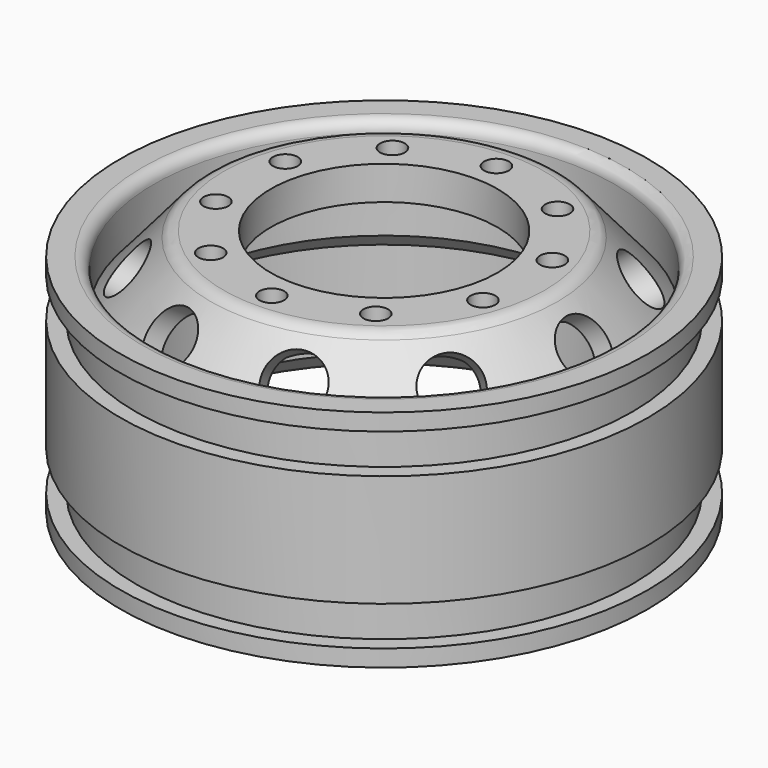
from build123d import *

# Parameters (mm, degrees)
CYLINDER073_R               = 10.1
CYLINDER073_DEPTH           = 26
CYLINDER022_R               = 1.1
CYLINDER022_DEPTH           = 10
CYLINDER021_R               = 1.1
CYLINDER021_DEPTH           = 10
FUSION010_PLACEMENT_ANGLE   = 54
CYLINDER024_R               = 1.1
CYLINDER024_DEPTH           = 10
CYLINDER023_R               = 1.1
CYLINDER023_DEPTH           = 10
FUSION011_PLACEMENT_ANGLE   = 162
CYLINDER026_R               = 1.1
CYLINDER026_DEPTH           = 10
CYLINDER025_R               = 1.1
CYLINDER025_DEPTH           = 10
FUSION012_PLACEMENT_ANGLE   = 126
CYLINDER028_R               = 1.1
CYLINDER028_DEPTH           = 10
CYLINDER027_R               = 1.1
CYLINDER027_DEPTH           = 10
FUSION013_PLACEMENT_ANGLE   = 90
CYLINDER020_R               = 1.1
CYLINDER020_DEPTH           = 10
CYLINDER019_R               = 1.1
CYLINDER019_DEPTH           = 10
FUSION009_PLACEMENT_ANGLE   = 18
CYLINDER012_R               = 2.5
CYLINDER012_DEPTH           = 8
CYLINDER012_PLACEMENT_ANGLE = 58
CYLINDER011_R               = 2.5
CYLINDER011_DEPTH           = 8
CYLINDER011_PLACEMENT_ANGLE = 58
FUSION004_PLACEMENT_ANGLE   = 36
CYLINDER014_R               = 2.5
CYLINDER014_DEPTH           = 8
CYLINDER014_PLACEMENT_ANGLE = 58
CYLINDER013_R               = 2.5
CYLINDER013_DEPTH           = 8
CYLINDER013_PLACEMENT_ANGLE = 58
FUSION005_PLACEMENT_ANGLE   = 72
CYLINDER016_R               = 2.5
CYLINDER016_DEPTH           = 8
CYLINDER016_PLACEMENT_ANGLE = 58
CYLINDER015_R               = 2.5
CYLINDER015_DEPTH           = 8
CYLINDER015_PLACEMENT_ANGLE = 58
FUSION006_PLACEMENT_ANGLE   = 108
CYLINDER018_R               = 2.5
CYLINDER018_DEPTH           = 8
CYLINDER018_PLACEMENT_ANGLE = 58
CYLINDER017_R               = 2.5
CYLINDER017_DEPTH           = 8
CYLINDER017_PLACEMENT_ANGLE = 58
FUSION007_PLACEMENT_ANGLE   = 144
CYLINDER010_R               = 2.5
CYLINDER010_DEPTH           = 8
CYLINDER010_PLACEMENT_ANGLE = 58
CYLINDER009_R               = 2.5
CYLINDER009_DEPTH           = 8
CYLINDER009_PLACEMENT_ANGLE = 58
CYLINDER008_R               = 20
CYLINDER008_DEPTH           = 12
CYLINDER007_R               = 10
CYLINDER007_DEPTH           = 26
CYLINDER006_R               = 20.5
CYLINDER006_DEPTH           = 10
CYLINDER005_R               = 18.5
CYLINDER005_DEPTH           = 20
CYLINDER004_R               = 22.1
CYLINDER004_DEPTH           = 17
CYLINDER003_R               = 23.5
CYLINDER003_DEPTH           = 17
CYLINDER002_R               = 23.5
CYLINDER002_DEPTH           = 20
CYLINDER001_R               = 22
CYLINDER001_DEPTH           = 17
CYLINDER_R                  = 23.5
CYLINDER_DEPTH              = 10
FILLET002_R                 = 1
CHAMFER001_SIZE             = 1.49
CHAMFER_SIZE                = 2
FILLET001_R                 = 1.5
FILLET_R                    = 1.5


with BuildPart() as cylinder073:
    # Cylinder073 → Cylinder073 (new body)
    with BuildSketch(Plane.XY):
        Circle(CYLINDER073_R)
    extrude(amount=CYLINDER073_DEPTH)


with BuildPart() as cylinder022:
    # Cylinder022 → Cylinder022 (new body)
    with BuildSketch(Plane(origin=(-12.5, 0, 13), x_dir=(1, 0, 0), z_dir=(0, 0, 1))):
        Circle(CYLINDER022_R)
    extrude(amount=CYLINDER022_DEPTH)


with BuildPart() as fusion010:
    # Cylinder021 → Cylinder021 (new body)
    with BuildSketch(Plane(origin=(12.5, 0, 13), x_dir=(1, 0, 0), z_dir=(0, 0, 1))):
        Circle(CYLINDER021_R)
    extrude(amount=CYLINDER021_DEPTH)

    # Fusion010: union Cylinder022
    add(cylinder022.part)


with BuildPart() as fusion010_1:
    # Fusion010 placement: moved
    add(fusion010.part.rotate(Axis((0, 0, 0), (0, 0, 1)), FUSION010_PLACEMENT_ANGLE))


with BuildPart() as cylinder024:
    # Cylinder024 → Cylinder024 (new body)
    with BuildSketch(Plane(origin=(-12.5, 0, 13), x_dir=(1, 0, 0), z_dir=(0, 0, 1))):
        Circle(CYLINDER024_R)
    extrude(amount=CYLINDER024_DEPTH)


with BuildPart() as fusion011:
    # Cylinder023 → Cylinder023 (new body)
    with BuildSketch(Plane(origin=(12.5, 0, 13), x_dir=(1, 0, 0), z_dir=(0, 0, 1))):
        Circle(CYLINDER023_R)
    extrude(amount=CYLINDER023_DEPTH)

    # Fusion011: union Cylinder024
    add(cylinder024.part)


with BuildPart() as fusion011_1:
    # Fusion011 placement: moved
    add(fusion011.part.rotate(Axis((0, 0, 0), (0, 0, 1)), FUSION011_PLACEMENT_ANGLE))


with BuildPart() as cylinder026:
    # Cylinder026 → Cylinder026 (new body)
    with BuildSketch(Plane(origin=(-12.5, 0, 13), x_dir=(1, 0, 0), z_dir=(0, 0, 1))):
        Circle(CYLINDER026_R)
    extrude(amount=CYLINDER026_DEPTH)


with BuildPart() as fusion012:
    # Cylinder025 → Cylinder025 (new body)
    with BuildSketch(Plane(origin=(12.5, 0, 13), x_dir=(1, 0, 0), z_dir=(0, 0, 1))):
        Circle(CYLINDER025_R)
    extrude(amount=CYLINDER025_DEPTH)

    # Fusion012: union Cylinder026
    add(cylinder026.part)


with BuildPart() as fusion012_1:
    # Fusion012 placement: moved
    add(fusion012.part.rotate(Axis((0, 0, 0), (0, 0, 1)), FUSION012_PLACEMENT_ANGLE))


with BuildPart() as cylinder028:
    # Cylinder028 → Cylinder028 (new body)
    with BuildSketch(Plane(origin=(-12.5, 0, 13), x_dir=(1, 0, 0), z_dir=(0, 0, 1))):
        Circle(CYLINDER028_R)
    extrude(amount=CYLINDER028_DEPTH)


with BuildPart() as fusion013:
    # Cylinder027 → Cylinder027 (new body)
    with BuildSketch(Plane(origin=(12.5, 0, 13), x_dir=(1, 0, 0), z_dir=(0, 0, 1))):
        Circle(CYLINDER027_R)
    extrude(amount=CYLINDER027_DEPTH)

    # Fusion013: union Cylinder028
    add(cylinder028.part)


with BuildPart() as fusion013_1:
    # Fusion013 placement: moved
    add(fusion013.part.rotate(Axis((0, 0, 0), (0, 0, 1)), FUSION013_PLACEMENT_ANGLE))


with BuildPart() as cylinder020:
    # Cylinder020 → Cylinder020 (new body)
    with BuildSketch(Plane(origin=(-12.5, 0, 13), x_dir=(1, 0, 0), z_dir=(0, 0, 1))):
        Circle(CYLINDER020_R)
    extrude(amount=CYLINDER020_DEPTH)


with BuildPart() as fusion008:
    # Cylinder019 → Cylinder019 (new body)
    with BuildSketch(Plane(origin=(12.5, 0, 13), x_dir=(1, 0, 0), z_dir=(0, 0, 1))):
        Circle(CYLINDER019_R)
    extrude(amount=CYLINDER019_DEPTH)

    # Fusion009: union Cylinder020
    add(cylinder020.part)


with BuildPart() as fusion008_1:
    # Fusion009 placement: moved
    add(fusion008.part.rotate(Axis((0, 0, 0), (0, 0, 1)), FUSION009_PLACEMENT_ANGLE))

    # Fusion008: union Fusion010, Fusion011, Fusion012, Fusion013
    add(fusion010_1.part)
    add(fusion011_1.part)
    add(fusion012_1.part)
    add(fusion013_1.part)


with BuildPart() as cylinder012:
    # Cylinder012 → Cylinder012 (new body)
    with BuildSketch(Plane.XY):
        Circle(CYLINDER012_R)
    extrude(amount=CYLINDER012_DEPTH)


with BuildPart() as cylinder012_1:
    # Cylinder012 placement: moved
    add(cylinder012.part.moved(Location((12, 0, 16))).rotate(Axis((12, 0, 16), (0, 1, 0)), CYLINDER012_PLACEMENT_ANGLE))


with BuildPart() as part_mirroring001:
    # Part__Mirroring001: instance of Cylinder012
    add(cylinder012_1.part.mirror(Plane(origin=(0, 0, 0), x_dir=(0, -1, 0), z_dir=(1, 0, 0))))


with BuildPart() as fusion004:
    # Cylinder011 → Cylinder011 (new body)
    with BuildSketch(Plane.XY):
        Circle(CYLINDER011_R)
    extrude(amount=CYLINDER011_DEPTH)


with BuildPart() as fusion004_1:
    # Cylinder011 placement: moved
    add(fusion004.part.moved(Location((12, 0, 16))).rotate(Axis((12, 0, 16), (0, 1, 0)), CYLINDER011_PLACEMENT_ANGLE))

    # Fusion004: union Part__Mirroring001
    add(part_mirroring001.part)


with BuildPart() as fusion004_2:
    # Fusion004 placement: moved
    add(fusion004_1.part.rotate(Axis((0, 0, 0), (0, 0, 1)), FUSION004_PLACEMENT_ANGLE))


with BuildPart() as cylinder014:
    # Cylinder014 → Cylinder014 (new body)
    with BuildSketch(Plane.XY):
        Circle(CYLINDER014_R)
    extrude(amount=CYLINDER014_DEPTH)


with BuildPart() as cylinder014_1:
    # Cylinder014 placement: moved
    add(cylinder014.part.moved(Location((12, 0, 16))).rotate(Axis((12, 0, 16), (0, 1, 0)), CYLINDER014_PLACEMENT_ANGLE))


with BuildPart() as part_mirroring002:
    # Part__Mirroring002: instance of Cylinder014
    add(cylinder014_1.part.mirror(Plane(origin=(0, 0, 0), x_dir=(0, -1, 0), z_dir=(1, 0, 0))))


with BuildPart() as fusion005:
    # Cylinder013 → Cylinder013 (new body)
    with BuildSketch(Plane.XY):
        Circle(CYLINDER013_R)
    extrude(amount=CYLINDER013_DEPTH)


with BuildPart() as fusion005_1:
    # Cylinder013 placement: moved
    add(fusion005.part.moved(Location((12, 0, 16))).rotate(Axis((12, 0, 16), (0, 1, 0)), CYLINDER013_PLACEMENT_ANGLE))

    # Fusion005: union Part__Mirroring002
    add(part_mirroring002.part)


with BuildPart() as fusion005_2:
    # Fusion005 placement: moved
    add(fusion005_1.part.rotate(Axis((0, 0, 0), (0, 0, 1)), FUSION005_PLACEMENT_ANGLE))


with BuildPart() as cylinder016:
    # Cylinder016 → Cylinder016 (new body)
    with BuildSketch(Plane.XY):
        Circle(CYLINDER016_R)
    extrude(amount=CYLINDER016_DEPTH)


with BuildPart() as cylinder016_1:
    # Cylinder016 placement: moved
    add(cylinder016.part.moved(Location((12, 0, 16))).rotate(Axis((12, 0, 16), (0, 1, 0)), CYLINDER016_PLACEMENT_ANGLE))


with BuildPart() as part_mirroring003:
    # Part__Mirroring003: instance of Cylinder016
    add(cylinder016_1.part.mirror(Plane(origin=(0, 0, 0), x_dir=(0, -1, 0), z_dir=(1, 0, 0))))


with BuildPart() as fusion006:
    # Cylinder015 → Cylinder015 (new body)
    with BuildSketch(Plane.XY):
        Circle(CYLINDER015_R)
    extrude(amount=CYLINDER015_DEPTH)


with BuildPart() as fusion006_1:
    # Cylinder015 placement: moved
    add(fusion006.part.moved(Location((12, 0, 16))).rotate(Axis((12, 0, 16), (0, 1, 0)), CYLINDER015_PLACEMENT_ANGLE))

    # Fusion006: union Part__Mirroring003
    add(part_mirroring003.part)


with BuildPart() as fusion006_2:
    # Fusion006 placement: moved
    add(fusion006_1.part.rotate(Axis((0, 0, 0), (0, 0, 1)), FUSION006_PLACEMENT_ANGLE))


with BuildPart() as cylinder018:
    # Cylinder018 → Cylinder018 (new body)
    with BuildSketch(Plane.XY):
        Circle(CYLINDER018_R)
    extrude(amount=CYLINDER018_DEPTH)


with BuildPart() as cylinder018_1:
    # Cylinder018 placement: moved
    add(cylinder018.part.moved(Location((12, 0, 16))).rotate(Axis((12, 0, 16), (0, 1, 0)), CYLINDER018_PLACEMENT_ANGLE))


with BuildPart() as part_mirroring004:
    # Part__Mirroring004: instance of Cylinder018
    add(cylinder018_1.part.mirror(Plane(origin=(0, 0, 0), x_dir=(0, -1, 0), z_dir=(1, 0, 0))))


with BuildPart() as fusion007:
    # Cylinder017 → Cylinder017 (new body)
    with BuildSketch(Plane.XY):
        Circle(CYLINDER017_R)
    extrude(amount=CYLINDER017_DEPTH)


with BuildPart() as fusion007_1:
    # Cylinder017 placement: moved
    add(fusion007.part.moved(Location((12, 0, 16))).rotate(Axis((12, 0, 16), (0, 1, 0)), CYLINDER017_PLACEMENT_ANGLE))

    # Fusion007: union Part__Mirroring004
    add(part_mirroring004.part)


with BuildPart() as fusion007_2:
    # Fusion007 placement: moved
    add(fusion007_1.part.rotate(Axis((0, 0, 0), (0, 0, 1)), FUSION007_PLACEMENT_ANGLE))


with BuildPart() as cylinder010:
    # Cylinder010 → Cylinder010 (new body)
    with BuildSketch(Plane.XY):
        Circle(CYLINDER010_R)
    extrude(amount=CYLINDER010_DEPTH)


with BuildPart() as cylinder010_1:
    # Cylinder010 placement: moved
    add(cylinder010.part.moved(Location((12, 0, 16))).rotate(Axis((12, 0, 16), (0, 1, 0)), CYLINDER010_PLACEMENT_ANGLE))


with BuildPart() as part_mirroring:
    # Part__Mirroring: instance of Cylinder010
    add(cylinder010_1.part.mirror(Plane(origin=(0, 0, 0), x_dir=(0, -1, 0), z_dir=(1, 0, 0))))


with BuildPart() as fusion002:
    # Cylinder009 → Cylinder009 (new body)
    with BuildSketch(Plane.XY):
        Circle(CYLINDER009_R)
    extrude(amount=CYLINDER009_DEPTH)


with BuildPart() as fusion002_1:
    # Cylinder009 placement: moved
    add(fusion002.part.moved(Location((12, 0, 16))).rotate(Axis((12, 0, 16), (0, 1, 0)), CYLINDER009_PLACEMENT_ANGLE))

    # Fusion003: union Part__Mirroring
    add(part_mirroring.part)

    # Fusion002: union Fusion004, Fusion005, Fusion006, Fusion007
    add(fusion004_2.part)
    add(fusion005_2.part)
    add(fusion006_2.part)
    add(fusion007_2.part)


with BuildPart() as fusion002_2:
    # Fusion002 placement: moved
    add(fusion002_1.part.moved(Location((0, 0, -1))))


with BuildPart() as cylinder008:
    # Cylinder008 → Cylinder008 (new body)
    with BuildSketch(Plane.XY):
        Circle(CYLINDER008_R)
    extrude(amount=CYLINDER008_DEPTH)


with BuildPart() as cone001:
    # Cone001 → Cone001 (revolve)
    with BuildSketch(Plane(origin=(0, 0, 9), x_dir=(1, 0, 0), z_dir=(0, -1, 0))):
        Polygon((0, 0), (24, 0), (15, 10), (0, 10), align=None)
    revolve(axis=Axis((0, 0, 9), (0, 0, 1)))


with BuildPart() as cylinder007:
    # Cylinder007 → Cylinder007 (new body)
    with BuildSketch(Plane.XY):
        Circle(CYLINDER007_R)
    extrude(amount=CYLINDER007_DEPTH)


with BuildPart() as cut008:
    # Cone → Cone (revolve)
    with BuildSketch(Plane(origin=(0, 0, 15), x_dir=(1, 0, 0), z_dir=(0, -1, 0))):
        Polygon((0, 0), (21, 0), (15, 7), (0, 7), align=None)
    revolve(axis=Axis((0, 0, 15), (0, 0, 1)))

    # Cut009: cut Cylinder007
    add(cylinder007.part, mode=Mode.SUBTRACT)

    # Cut008: cut Cone001
    add(cone001.part, mode=Mode.SUBTRACT)


with BuildPart() as cylinder006:
    # Cylinder006 → Cylinder006 (new body)
    with BuildSketch(Plane.XY.offset(15)):
        Circle(CYLINDER006_R)
    extrude(amount=CYLINDER006_DEPTH)


with BuildPart() as cylinder005:
    # Cylinder005 → Cylinder005 (new body)
    with BuildSketch(Plane.XY):
        Circle(CYLINDER005_R)
    extrude(amount=CYLINDER005_DEPTH)


with BuildPart() as cylinder004:
    # Cylinder004 → Cylinder004 (new body)
    with BuildSketch(Plane.XY):
        Circle(CYLINDER004_R)
    extrude(amount=CYLINDER004_DEPTH)


with BuildPart() as cut007:
    # Cylinder003 → Cylinder003 (new body)
    with BuildSketch(Plane.XY):
        Circle(CYLINDER003_R)
    extrude(amount=CYLINDER003_DEPTH)

    # Cut007: cut Cylinder004
    add(cylinder004.part, mode=Mode.SUBTRACT)


with BuildPart() as cut007_1:
    # Cut007 placement: moved
    add(cut007.part.moved(Location((0, 0, 1.5))))


with BuildPart() as cut006:
    # Cylinder002 → Cylinder002 (new body)
    with BuildSketch(Plane.XY):
        Circle(CYLINDER002_R)
    extrude(amount=CYLINDER002_DEPTH)

    # Cut006: cut Cut007
    add(cut007_1.part, mode=Mode.SUBTRACT)


with BuildPart() as cylinder001:
    # Cylinder001 → Cylinder001 (new body)
    with BuildSketch(Plane.XY):
        Circle(CYLINDER001_R)
    extrude(amount=CYLINDER001_DEPTH)


with BuildPart() as rim_front:
    # Cylinder → Cylinder (new body)
    with BuildSketch(Plane.XY.offset(0.5)):
        Circle(CYLINDER_R)
    extrude(amount=CYLINDER_DEPTH)

    # Cut005: cut Cylinder001
    add(cylinder001.part, mode=Mode.SUBTRACT)


with BuildPart() as rim_front_1:
    # Cut005 placement: moved
    add(rim_front.part.moved(Location((0, 0, 4.5))))

    # Fusion001: union Cut006
    add(cut006.part)

    # Cut004: cut Cylinder005
    add(cylinder005.part, mode=Mode.SUBTRACT)

    # Cut003: cut Cylinder006
    add(cylinder006.part, mode=Mode.SUBTRACT)

    # Fillet002
    fillet002_edges = [rim_front_1.edges().sort_by_distance(p)[0] for p in [
        (-14.495689, 14.495689, 20),
    ]]
    fillet(fillet002_edges, radius=FILLET002_R)

    # Fusion: union Cut008
    add(cut008.part)

    # Cut002: cut Cylinder008
    add(cylinder008.part, mode=Mode.SUBTRACT)

    # Chamfer001
    chamfer001_edges = [rim_front_1.edges().sort_by_distance(p)[0] for p in [
        (-20, 0, 12),
    ]]
    chamfer(chamfer001_edges, length=CHAMFER001_SIZE)

    # Chamfer
    chamfer_edges = [rim_front_1.edges().sort_by_distance(p)[0] for p in [
        (-20, 0, 0),
    ]]
    chamfer(chamfer_edges, length=CHAMFER_SIZE)

    # Cut001: cut Fusion002
    add(fusion002_2.part, mode=Mode.SUBTRACT)

    # Cut: cut Fusion008
    add(fusion008_1.part, mode=Mode.SUBTRACT)

    # Fillet001
    fillet001_edges = [rim_front_1.edges().sort_by_distance(p)[0] for p in [
        (-15, 0, 22),
    ]]
    fillet(fillet001_edges, radius=FILLET001_R)

    # Fillet
    fillet_edges = [rim_front_1.edges().sort_by_distance(p)[0] for p in [
        (-22, 0, 0),
    ]]
    fillet(fillet_edges, radius=FILLET_R)

    # Cut023: cut Cylinder073
    add(cylinder073.part, mode=Mode.SUBTRACT)


solid = rim_front_1.part
